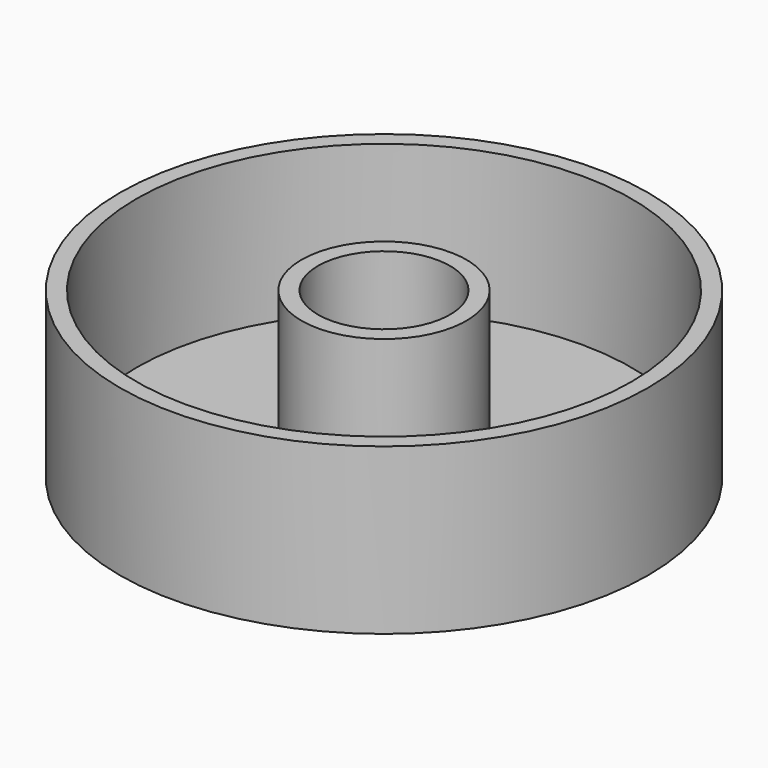
from build123d import *

# Parameters (mm, degrees)
F0_W = 30
F0_H = 12.5
F2_T = -2.5


with BuildPart() as f1:
    # F0 (on Front) → F1 (revolve)
    with BuildSketch(Plane.XZ):
        with Locations((-25, 6.25)):
            Rectangle(F0_W, F0_H)
        with Locations((-25, -6.25)):
            Rectangle(F0_W, F0_H)
    revolve(axis=Axis((0, 0, 25), (0, 0, 1)))

    # F2
    f2_openings = [f1.faces().sort_by_distance(p)[0] for p in [
        (11.131371, 0, 12.5),
    ]]
    offset(amount=F2_T, openings=f2_openings)


solid = f1.part
